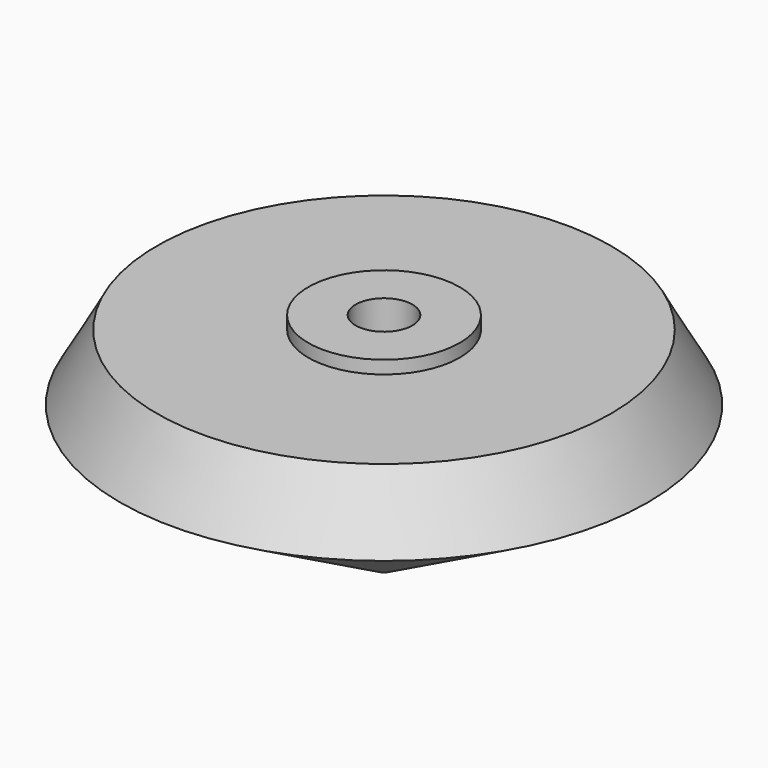
from build123d import *

# Parameters (mm, degrees)
F2_R     = 4.7625
F3_DEPTH = 9.525
F4_R     = 1.5875
F5_DEPTH = 22.225


with BuildPart() as f1:
    # F0 (on Front) → F1 (revolve)
    with BuildSketch(Plane.XZ):
        Polygon((0, 38.1), (0, 0), (44.310829, 24.843317), (38.1, 35.921024), (12.7, 35.921024), (12.7, 38.1), align=None)
    revolve(axis=Axis((0, 0, 19.05), (0, 0, -1)))

    # F2 (on face) → F3 (cut)
    with BuildSketch(Plane.XY.offset(38.1)):
        Circle(F2_R)
    extrude(amount=-F3_DEPTH, mode=Mode.SUBTRACT)

    # F4 (on Top) → F5 (cut)
    with BuildSketch(Plane.XY):
        Circle(F4_R)
    extrude(amount=F5_DEPTH, mode=Mode.SUBTRACT)


solid = f1.part
